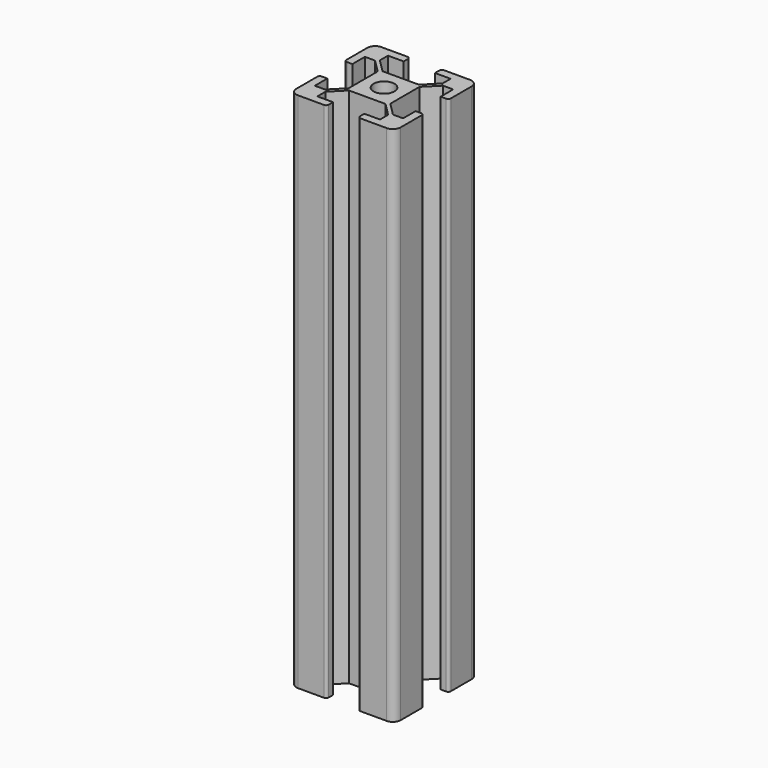
from build123d import *

# Parameters (mm, degrees)
F0_R     = 2
F1_DEPTH = 100


with BuildPart() as f1:
    # F0 (on Top) → F1 (new body)
    with BuildSketch(Plane.XY):
        with BuildLine():
            Line((8.455436, 3), (9.5, 3))
            ThreePointArc((9.5, 3), (9.853553, 3.146447), (10, 3.5))
            Line((10, 3.5), (10, 8.5))
            ThreePointArc((10, 8.5), (9.56066, 9.56066), (8.5, 10))
            Line((8.5, 10), (3.5, 10))
            ThreePointArc((3.5, 10), (3.146447, 9.853553), (3, 9.5))
            Line((3, 9.5), (3, 8.455436))
            Line((3, 8.455436), (6, 8.455436))
            Line((6, 8.455436), (6, 6.512804))
            Line((6, 6.512804), (3.487196, 4))
            Line((3.487196, 4), (0, 4))
            Line((0, 4), (-3.487196, 4))
            Line((-3.487196, 4), (-6, 6.512804))
            Line((-6, 6.512804), (-6, 8.455436))
            Line((-6, 8.455436), (-3, 8.455436))
            Line((-3, 8.455436), (-3, 9.5))
            ThreePointArc((-3, 9.5), (-3.146447, 9.853553), (-3.5, 10))
            Line((-3.5, 10), (-8.5, 10))
            ThreePointArc((-8.5, 10), (-9.56066, 9.56066), (-10, 8.5))
            Line((-10, 8.5), (-10, 3.5))
            ThreePointArc((-10, 3.5), (-9.853553, 3.146447), (-9.5, 3))
            Line((-9.5, 3), (-8.455436, 3))
            Line((-8.455436, 3), (-8.455436, 6))
            Line((-8.455436, 6), (-6.512804, 6))
            Line((-6.512804, 6), (-4, 3.487196))
            Line((-4, 3.487196), (-4, 0))
            Line((-4, 0), (-4, -3.487196))
            Line((-4, -3.487196), (-6.512804, -6))
            Line((-6.512804, -6), (-8.455436, -6))
            Line((-8.455436, -6), (-8.455436, -3))
            Line((-8.455436, -3), (-9.5, -3))
            ThreePointArc((-9.5, -3), (-9.853553, -3.146447), (-10, -3.5))
            Line((-10, -3.5), (-10, -8.5))
            ThreePointArc((-10, -8.5), (-9.56066, -9.56066), (-8.5, -10))
            Line((-8.5, -10), (-3.5, -10))
            ThreePointArc((-3.5, -10), (-3.146447, -9.853553), (-3, -9.5))
            Line((-3, -9.5), (-3, -8.455436))
            Line((-3, -8.455436), (-6, -8.455436))
            Line((-6, -8.455436), (-6, -6.512804))
            Line((-6, -6.512804), (-3.487196, -4))
            Line((-3.487196, -4), (0, -4))
            Line((0, -4), (3.487196, -4))
            Line((3.487196, -4), (6, -6.512804))
            Line((6, -6.512804), (6, -8.455436))
            Line((6, -8.455436), (3, -8.455436))
            Line((3, -8.455436), (3, -9.5))
            ThreePointArc((3, -9.5), (3.146447, -9.853553), (3.5, -10))
            Line((3.5, -10), (8.5, -10))
            ThreePointArc((8.5, -10), (9.56066, -9.56066), (10, -8.5))
            Line((10, -8.5), (10, -3.5))
            ThreePointArc((10, -3.5), (9.853553, -3.146447), (9.5, -3))
            Line((9.5, -3), (8.455436, -3))
            Line((8.455436, -3), (8.455436, -6))
            Line((8.455436, -6), (6.512804, -6))
            Line((6.512804, -6), (4, -3.487196))
            Line((4, -3.487196), (4, 0))
            Line((4, 0), (4, 3.487196))
            Line((4, 3.487196), (6.512804, 6))
            Line((6.512804, 6), (8.455436, 6))
            Line((8.455436, 6), (8.455436, 3))
        make_face()
        Circle(F0_R, mode=Mode.SUBTRACT)
    extrude(amount=F1_DEPTH)


solid = f1.part
